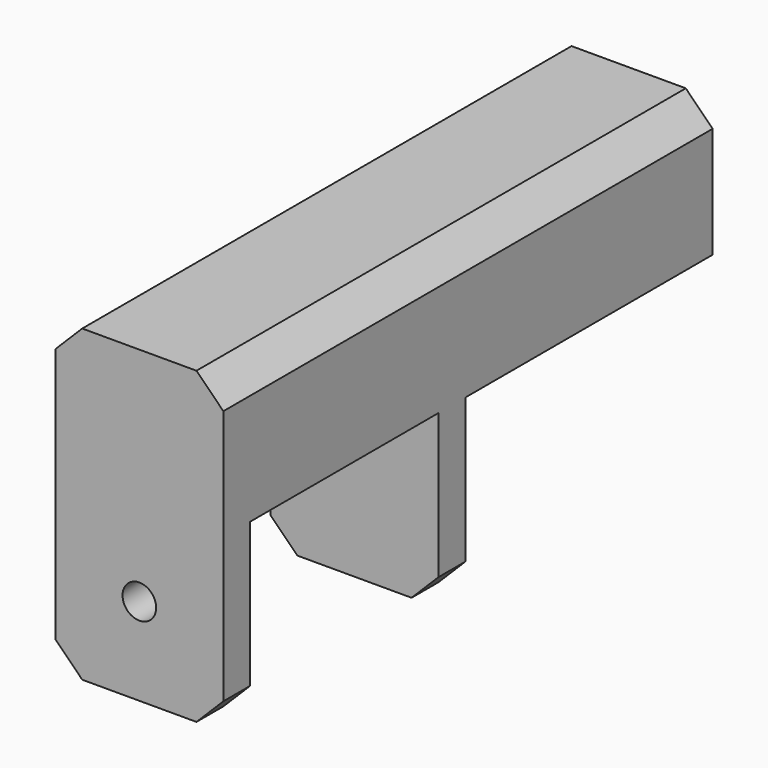
from build123d import *

# Parameters (mm, degrees)
PAD008_DEPTH = 3
PAD009_DEPTH = 91
SKETCH019_R  = 2.5
PAD010_DEPTH = 5
SKETCH021_R  = 2.5
PAD011_DEPTH = 5


with BuildPart() as part:
    # Sketch017 → Pad008 (new body)
    with BuildSketch(Plane.XZ):
        Polygon((12.5, 2), (-12.5, 2), (-12.5, 18.5), (-8.5, 22.5), (8.5, 22.5), (12.5, 18.5), align=None)
    extrude(amount=PAD008_DEPTH)

    # Sketch018 → Pad009 (join)
    with BuildSketch(Plane.XZ):
        Polygon((-12.5, 2), (-12.5, 18.5), (-8.5, 22.5), (8.5, 22.5), (12.5, 18.5), (12.5, 2), (8.5, 2), (8.5, 18.5), (2, 18.5), (2, 2), (-2, 2), (-2, 18.5), (-8.5, 18.5), (-8.5, 2), align=None)
    extrude(amount=PAD009_DEPTH)

    # Sketch019 → Pad010 (join)
    with BuildSketch(Plane.XZ.offset(46)):
        Polygon((-12.5, 18.5), (-12.5, -19.5), (-8.5, -23.5), (8.5, -23.5), (12.5, -19.5), (12.5, 18.5), (8.5, 22.5), (-8.5, 22.5), align=None)
        with Locations((0, -3.5)):
            Circle(SKETCH019_R, mode=Mode.SUBTRACT)
    extrude(amount=PAD010_DEPTH)

    # Sketch021 → Pad011 (join)
    with BuildSketch(Plane.XZ.offset(91)):
        Polygon((-8.5, 22.5), (-12.5, 18.5), (-12.5, -19.5), (-8.5, -23.5), (8.5, -23.5), (12.5, -19.5), (12.5, 18.5), (8.5, 22.5), align=None)
        with Locations((0, -10.5)):
            Circle(SKETCH021_R, mode=Mode.SUBTRACT)
    extrude(amount=-PAD011_DEPTH)


with BuildPart() as part_1:
    # Body006 placement: moved
    add(part.part.moved(Location((0, -24, 0))))


solid = part_1.part
